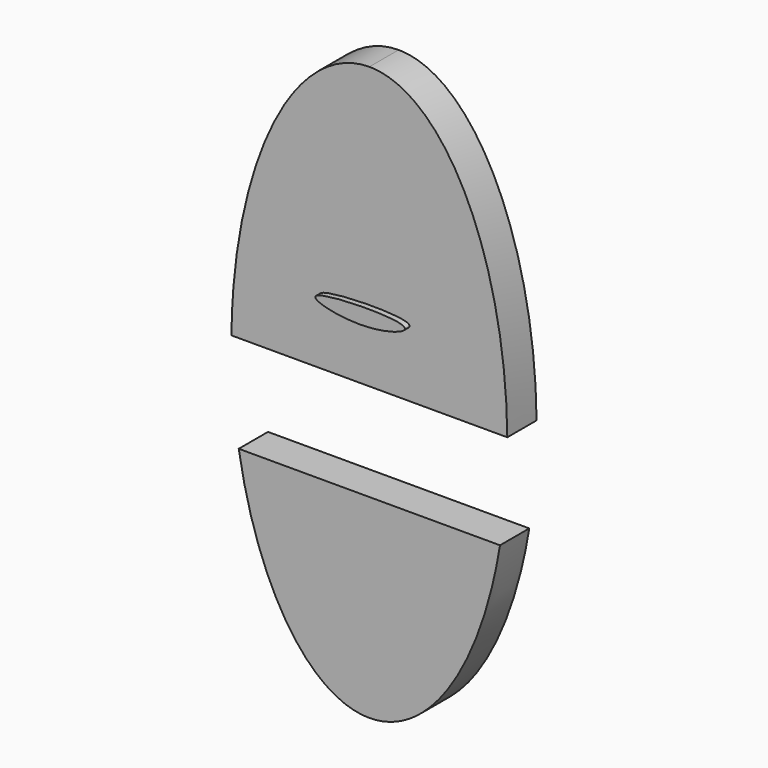
from build123d import *

# Parameters (mm, degrees)
F1_DEPTH = 19.304
F2_W     = 150.1865312457
F2_H     = 51.410831511
F3_DEPTH = 22.606
F5_DEPTH = 3.048


with BuildPart() as f1:
    # F0 (on Front) → F1 (new body)
    with BuildSketch(Plane.XZ):
        with BuildLine():
            add(Edge.make_bspline(
                [(0, 76.0679021478), (-126.1104521631, 76.0679021478), (-63.0552260816, -150.8217677474), (0, -377.7114376426), (63.0552260816, -150.8217677474), (126.1104521631, 76.0679021478), (0, 76.0679021478)],
                knots=[0, 0, 0, 2.0943951024, 2.0943951024, 4.1887902048, 4.1887902048, 6.2831853072, 6.2831853072, 6.2831853072], degree=2, weights=[1, 0.5, 1, 0.5, 1, 0.5, 1]))
        make_face()
    extrude(amount=F1_DEPTH)

    # F2 (on Front) → F3 (cut)
    with BuildSketch(Plane.XZ):
        with Locations((-0.5564652383, -98.0915315449)):
            Rectangle(F2_W, F2_H)
    extrude(amount=F3_DEPTH, mode=Mode.SUBTRACT)

    # F4 (on face) → F5 (join)
    with BuildSketch(Plane.XZ.offset(19.304)):
        with BuildLine():
            add(Edge.make_bspline(
                [(-25.6680138409, -37.415780127), (-28.9839463214, -39.8456836206), (-0.1049279853, -47.1434588764), (40.822560782, -32.9041713044), (-21.2696628827, -34.192684234), (-25.6680138409, -37.415780127)],
                knots=[0, 0, 0, 0, 0.3092707929, 0.5897740692, 1, 1, 1, 1], degree=3))
        make_face()
    extrude(amount=F5_DEPTH)


solid = f1.part
